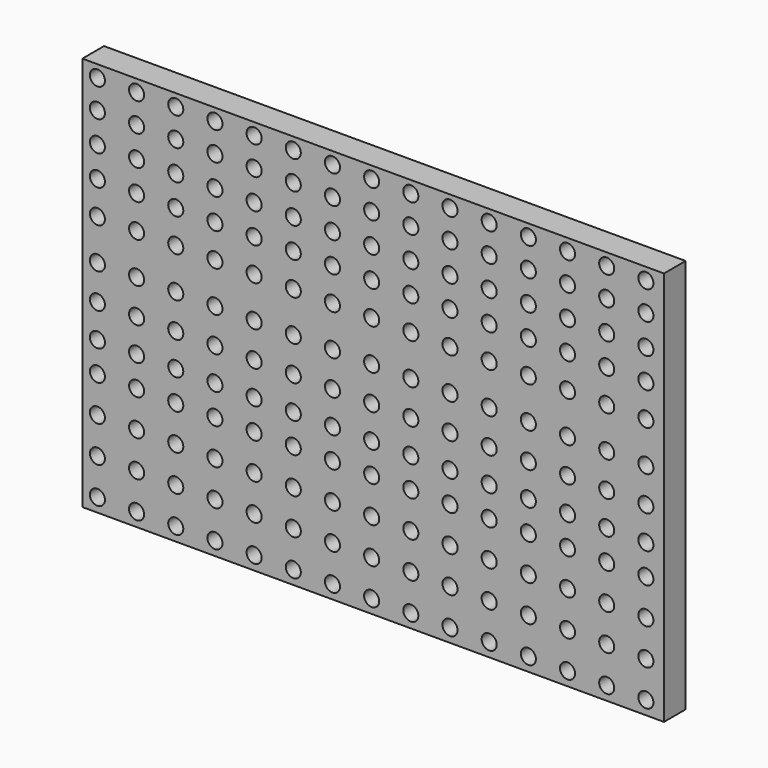
from build123d import *

# Parameters (mm, degrees)
F0_W     = 98.044004
F0_H     = 66.548001
F0_R     = 1.270001
F1_DEPTH = 4.572


with BuildPart() as f1:
    # F0 (on Front) → F1 (new body)
    with BuildSketch(Plane.XZ):
        with Locations((0.635, -0.891647)):
            Rectangle(F0_W, F0_H)
        with Locations((-45.847002, -31.879646)):
            Circle(F0_R, mode=Mode.SUBTRACT)
        with Locations((-39.243002, -31.879646)):
            Circle(F0_R, mode=Mode.SUBTRACT)
        with Locations((-32.639002, -31.879646)):
            Circle(F0_R, mode=Mode.SUBTRACT)
        with Locations((-26.035002, -31.879646)):
            Circle(F0_R, mode=Mode.SUBTRACT)
        with Locations((-45.847002, -25.783646)):
            Circle(F0_R, mode=Mode.SUBTRACT)
        with Locations((-39.243002, -25.783646)):
            Circle(F0_R, mode=Mode.SUBTRACT)
        with Locations((-45.847002, -19.687646)):
            Circle(F0_R, mode=Mode.SUBTRACT)
        with Locations((-39.243002, -19.687646)):
            Circle(F0_R, mode=Mode.SUBTRACT)
        with Locations((-32.639002, -25.783646)):
            Circle(F0_R, mode=Mode.SUBTRACT)
        with Locations((-26.035002, -25.783646)):
            Circle(F0_R, mode=Mode.SUBTRACT)
        with Locations((-32.639002, -19.687646)):
            Circle(F0_R, mode=Mode.SUBTRACT)
        with Locations((-26.035002, -19.687646)):
            Circle(F0_R, mode=Mode.SUBTRACT)
        with Locations((-19.431002, -31.879646)):
            Circle(F0_R, mode=Mode.SUBTRACT)
        with Locations((-12.827002, -31.879646)):
            Circle(F0_R, mode=Mode.SUBTRACT)
        with Locations((-6.223002, -31.879646)):
            Circle(F0_R, mode=Mode.SUBTRACT)
        with Locations((0.380998, -31.879646)):
            Circle(F0_R, mode=Mode.SUBTRACT)
        with Locations((-19.431002, -25.783646)):
            Circle(F0_R, mode=Mode.SUBTRACT)
        with Locations((-12.827002, -25.783646)):
            Circle(F0_R, mode=Mode.SUBTRACT)
        with Locations((-19.431002, -19.687646)):
            Circle(F0_R, mode=Mode.SUBTRACT)
        with Locations((-12.827002, -19.687646)):
            Circle(F0_R, mode=Mode.SUBTRACT)
        with Locations((-6.223002, -25.783646)):
            Circle(F0_R, mode=Mode.SUBTRACT)
        with Locations((0.380998, -25.783646)):
            Circle(F0_R, mode=Mode.SUBTRACT)
        with Locations((-6.223002, -19.687646)):
            Circle(F0_R, mode=Mode.SUBTRACT)
        with Locations((0.380998, -19.687646)):
            Circle(F0_R, mode=Mode.SUBTRACT)
        with Locations((-45.847002, -13.591646)):
            Circle(F0_R, mode=Mode.SUBTRACT)
        with Locations((-39.243002, -13.591646)):
            Circle(F0_R, mode=Mode.SUBTRACT)
        with Locations((-32.639002, -13.591646)):
            Circle(F0_R, mode=Mode.SUBTRACT)
        with Locations((-26.035002, -13.591646)):
            Circle(F0_R, mode=Mode.SUBTRACT)
        with Locations((-45.847002, -8.511646)):
            Circle(F0_R, mode=Mode.SUBTRACT)
        with Locations((-39.243002, -8.511646)):
            Circle(F0_R, mode=Mode.SUBTRACT)
        with Locations((-45.847002, -2.923646)):
            Circle(F0_R, mode=Mode.SUBTRACT)
        with Locations((-39.243002, -2.923646)):
            Circle(F0_R, mode=Mode.SUBTRACT)
        with Locations((-32.639002, -8.511646)):
            Circle(F0_R, mode=Mode.SUBTRACT)
        with Locations((-26.035002, -8.511646)):
            Circle(F0_R, mode=Mode.SUBTRACT)
        with Locations((-32.639002, -2.923646)):
            Circle(F0_R, mode=Mode.SUBTRACT)
        with Locations((-26.035002, -2.923646)):
            Circle(F0_R, mode=Mode.SUBTRACT)
        with Locations((-19.431002, -13.591646)):
            Circle(F0_R, mode=Mode.SUBTRACT)
        with Locations((-12.827002, -13.591646)):
            Circle(F0_R, mode=Mode.SUBTRACT)
        with Locations((-6.223002, -13.591646)):
            Circle(F0_R, mode=Mode.SUBTRACT)
        with Locations((0.380998, -13.591646)):
            Circle(F0_R, mode=Mode.SUBTRACT)
        with Locations((-19.431002, -8.511646)):
            Circle(F0_R, mode=Mode.SUBTRACT)
        with Locations((-12.827002, -8.511646)):
            Circle(F0_R, mode=Mode.SUBTRACT)
        with Locations((-19.431002, -2.923646)):
            Circle(F0_R, mode=Mode.SUBTRACT)
        with Locations((-12.827002, -2.923646)):
            Circle(F0_R, mode=Mode.SUBTRACT)
        with Locations((-6.223002, -8.511646)):
            Circle(F0_R, mode=Mode.SUBTRACT)
        with Locations((0.380998, -8.511646)):
            Circle(F0_R, mode=Mode.SUBTRACT)
        with Locations((-6.223002, -2.923646)):
            Circle(F0_R, mode=Mode.SUBTRACT)
        with Locations((0.380998, -2.923646)):
            Circle(F0_R, mode=Mode.SUBTRACT)
        with Locations((6.984998, -31.879646)):
            Circle(F0_R, mode=Mode.SUBTRACT)
        with Locations((13.588998, -31.879646)):
            Circle(F0_R, mode=Mode.SUBTRACT)
        with Locations((20.192998, -31.879646)):
            Circle(F0_R, mode=Mode.SUBTRACT)
        with Locations((6.984998, -25.783646)):
            Circle(F0_R, mode=Mode.SUBTRACT)
        with Locations((6.984998, -19.687646)):
            Circle(F0_R, mode=Mode.SUBTRACT)
        with Locations((13.588998, -25.783646)):
            Circle(F0_R, mode=Mode.SUBTRACT)
        with Locations((20.192998, -25.783646)):
            Circle(F0_R, mode=Mode.SUBTRACT)
        with Locations((13.588998, -19.687646)):
            Circle(F0_R, mode=Mode.SUBTRACT)
        with Locations((20.192998, -19.687646)):
            Circle(F0_R, mode=Mode.SUBTRACT)
        with Locations((26.796998, -31.879646)):
            Circle(F0_R, mode=Mode.SUBTRACT)
        with Locations((33.400998, -31.879646)):
            Circle(F0_R, mode=Mode.SUBTRACT)
        with Locations((40.004998, -31.879646)):
            Circle(F0_R, mode=Mode.SUBTRACT)
        with Locations((46.608998, -31.879646)):
            Circle(F0_R, mode=Mode.SUBTRACT)
        with Locations((26.796998, -25.783646)):
            Circle(F0_R, mode=Mode.SUBTRACT)
        with Locations((33.400998, -25.783646)):
            Circle(F0_R, mode=Mode.SUBTRACT)
        with Locations((26.796998, -19.687646)):
            Circle(F0_R, mode=Mode.SUBTRACT)
        with Locations((33.400998, -19.687646)):
            Circle(F0_R, mode=Mode.SUBTRACT)
        with Locations((40.004998, -25.783646)):
            Circle(F0_R, mode=Mode.SUBTRACT)
        with Locations((46.608998, -25.783646)):
            Circle(F0_R, mode=Mode.SUBTRACT)
        with Locations((40.004998, -19.687646)):
            Circle(F0_R, mode=Mode.SUBTRACT)
        with Locations((46.608998, -19.687646)):
            Circle(F0_R, mode=Mode.SUBTRACT)
        with Locations((6.984998, -13.591646)):
            Circle(F0_R, mode=Mode.SUBTRACT)
        with Locations((13.588998, -13.591646)):
            Circle(F0_R, mode=Mode.SUBTRACT)
        with Locations((20.192998, -13.591646)):
            Circle(F0_R, mode=Mode.SUBTRACT)
        with Locations((6.984998, -8.511646)):
            Circle(F0_R, mode=Mode.SUBTRACT)
        with Locations((6.984998, -2.923646)):
            Circle(F0_R, mode=Mode.SUBTRACT)
        with Locations((13.588998, -8.511646)):
            Circle(F0_R, mode=Mode.SUBTRACT)
        with Locations((20.192998, -8.511646)):
            Circle(F0_R, mode=Mode.SUBTRACT)
        with Locations((13.588998, -2.923646)):
            Circle(F0_R, mode=Mode.SUBTRACT)
        with Locations((20.192998, -2.923646)):
            Circle(F0_R, mode=Mode.SUBTRACT)
        with Locations((26.796998, -13.591646)):
            Circle(F0_R, mode=Mode.SUBTRACT)
        with Locations((33.400998, -13.591646)):
            Circle(F0_R, mode=Mode.SUBTRACT)
        with Locations((40.004998, -13.591646)):
            Circle(F0_R, mode=Mode.SUBTRACT)
        with Locations((46.608998, -13.591646)):
            Circle(F0_R, mode=Mode.SUBTRACT)
        with Locations((26.796998, -8.511646)):
            Circle(F0_R, mode=Mode.SUBTRACT)
        with Locations((33.400998, -8.511646)):
            Circle(F0_R, mode=Mode.SUBTRACT)
        with Locations((26.796998, -2.923646)):
            Circle(F0_R, mode=Mode.SUBTRACT)
        with Locations((33.400998, -2.923646)):
            Circle(F0_R, mode=Mode.SUBTRACT)
        with Locations((40.004998, -8.511646)):
            Circle(F0_R, mode=Mode.SUBTRACT)
        with Locations((46.608998, -8.511646)):
            Circle(F0_R, mode=Mode.SUBTRACT)
        with Locations((40.004998, -2.923646)):
            Circle(F0_R, mode=Mode.SUBTRACT)
        with Locations((46.608998, -2.923646)):
            Circle(F0_R, mode=Mode.SUBTRACT)
        with Locations((-45.847002, 2.918354)):
            Circle(F0_R, mode=Mode.SUBTRACT)
        with Locations((-39.243002, 2.918354)):
            Circle(F0_R, mode=Mode.SUBTRACT)
        with Locations((-32.639002, 2.918354)):
            Circle(F0_R, mode=Mode.SUBTRACT)
        with Locations((-26.035002, 2.918354)):
            Circle(F0_R, mode=Mode.SUBTRACT)
        with Locations((-45.847002, 9.776354)):
            Circle(F0_R, mode=Mode.SUBTRACT)
        with Locations((-39.243002, 9.776354)):
            Circle(F0_R, mode=Mode.SUBTRACT)
        with Locations((-45.847002, 15.364354)):
            Circle(F0_R, mode=Mode.SUBTRACT)
        with Locations((-39.243002, 15.364354)):
            Circle(F0_R, mode=Mode.SUBTRACT)
        with Locations((-32.639002, 9.776354)):
            Circle(F0_R, mode=Mode.SUBTRACT)
        with Locations((-26.035002, 9.776354)):
            Circle(F0_R, mode=Mode.SUBTRACT)
        with Locations((-32.639002, 15.364354)):
            Circle(F0_R, mode=Mode.SUBTRACT)
        with Locations((-26.035002, 15.364354)):
            Circle(F0_R, mode=Mode.SUBTRACT)
        with Locations((-19.431002, 2.918354)):
            Circle(F0_R, mode=Mode.SUBTRACT)
        with Locations((-12.827002, 2.918354)):
            Circle(F0_R, mode=Mode.SUBTRACT)
        with Locations((-6.223002, 2.918354)):
            Circle(F0_R, mode=Mode.SUBTRACT)
        with Locations((0.380998, 2.918354)):
            Circle(F0_R, mode=Mode.SUBTRACT)
        with Locations((-19.431002, 9.776354)):
            Circle(F0_R, mode=Mode.SUBTRACT)
        with Locations((-12.827002, 9.776354)):
            Circle(F0_R, mode=Mode.SUBTRACT)
        with Locations((-19.431002, 15.364354)):
            Circle(F0_R, mode=Mode.SUBTRACT)
        with Locations((-12.827002, 15.364354)):
            Circle(F0_R, mode=Mode.SUBTRACT)
        with Locations((-6.223002, 9.776354)):
            Circle(F0_R, mode=Mode.SUBTRACT)
        with Locations((0.380998, 9.776354)):
            Circle(F0_R, mode=Mode.SUBTRACT)
        with Locations((-6.223002, 15.364354)):
            Circle(F0_R, mode=Mode.SUBTRACT)
        with Locations((0.380998, 15.364354)):
            Circle(F0_R, mode=Mode.SUBTRACT)
        with Locations((-45.847002, 20.444354)):
            Circle(F0_R, mode=Mode.SUBTRACT)
        with Locations((-39.243002, 20.444354)):
            Circle(F0_R, mode=Mode.SUBTRACT)
        with Locations((-32.639002, 20.444354)):
            Circle(F0_R, mode=Mode.SUBTRACT)
        with Locations((-26.035002, 20.444354)):
            Circle(F0_R, mode=Mode.SUBTRACT)
        with Locations((-45.847002, 25.524354)):
            Circle(F0_R, mode=Mode.SUBTRACT)
        with Locations((-39.243002, 25.524354)):
            Circle(F0_R, mode=Mode.SUBTRACT)
        with Locations((-45.847002, 30.350354)):
            Circle(F0_R, mode=Mode.SUBTRACT)
        with Locations((-39.243002, 30.350354)):
            Circle(F0_R, mode=Mode.SUBTRACT)
        with Locations((-32.639002, 25.524354)):
            Circle(F0_R, mode=Mode.SUBTRACT)
        with Locations((-26.035002, 25.524354)):
            Circle(F0_R, mode=Mode.SUBTRACT)
        with Locations((-32.639002, 30.350354)):
            Circle(F0_R, mode=Mode.SUBTRACT)
        with Locations((-26.035002, 30.350354)):
            Circle(F0_R, mode=Mode.SUBTRACT)
        with Locations((-19.431002, 20.444354)):
            Circle(F0_R, mode=Mode.SUBTRACT)
        with Locations((-12.827002, 20.444354)):
            Circle(F0_R, mode=Mode.SUBTRACT)
        with Locations((-6.223002, 20.444354)):
            Circle(F0_R, mode=Mode.SUBTRACT)
        with Locations((0.380998, 20.444354)):
            Circle(F0_R, mode=Mode.SUBTRACT)
        with Locations((-19.431002, 25.524354)):
            Circle(F0_R, mode=Mode.SUBTRACT)
        with Locations((-12.827002, 25.524354)):
            Circle(F0_R, mode=Mode.SUBTRACT)
        with Locations((-19.431002, 30.350354)):
            Circle(F0_R, mode=Mode.SUBTRACT)
        with Locations((-12.827002, 30.350354)):
            Circle(F0_R, mode=Mode.SUBTRACT)
        with Locations((-6.223002, 25.524354)):
            Circle(F0_R, mode=Mode.SUBTRACT)
        with Locations((0.380998, 25.524354)):
            Circle(F0_R, mode=Mode.SUBTRACT)
        with Locations((-6.223002, 30.350354)):
            Circle(F0_R, mode=Mode.SUBTRACT)
        with Locations((0.380998, 30.350354)):
            Circle(F0_R, mode=Mode.SUBTRACT)
        with Locations((6.984998, 2.918354)):
            Circle(F0_R, mode=Mode.SUBTRACT)
        with Locations((13.588998, 2.918354)):
            Circle(F0_R, mode=Mode.SUBTRACT)
        with Locations((20.192998, 2.918354)):
            Circle(F0_R, mode=Mode.SUBTRACT)
        with Locations((6.984998, 9.776354)):
            Circle(F0_R, mode=Mode.SUBTRACT)
        with Locations((6.984998, 15.364354)):
            Circle(F0_R, mode=Mode.SUBTRACT)
        with Locations((13.588998, 9.776354)):
            Circle(F0_R, mode=Mode.SUBTRACT)
        with Locations((20.192998, 9.776354)):
            Circle(F0_R, mode=Mode.SUBTRACT)
        with Locations((13.588998, 15.364354)):
            Circle(F0_R, mode=Mode.SUBTRACT)
        with Locations((20.192998, 15.364354)):
            Circle(F0_R, mode=Mode.SUBTRACT)
        with Locations((26.796998, 2.918354)):
            Circle(F0_R, mode=Mode.SUBTRACT)
        with Locations((33.400998, 2.918354)):
            Circle(F0_R, mode=Mode.SUBTRACT)
        with Locations((40.004998, 2.918354)):
            Circle(F0_R, mode=Mode.SUBTRACT)
        with Locations((46.608998, 2.918354)):
            Circle(F0_R, mode=Mode.SUBTRACT)
        with Locations((26.796998, 9.776354)):
            Circle(F0_R, mode=Mode.SUBTRACT)
        with Locations((33.400998, 9.776354)):
            Circle(F0_R, mode=Mode.SUBTRACT)
        with Locations((26.796998, 15.364354)):
            Circle(F0_R, mode=Mode.SUBTRACT)
        with Locations((33.400998, 15.364354)):
            Circle(F0_R, mode=Mode.SUBTRACT)
        with Locations((40.004998, 9.776354)):
            Circle(F0_R, mode=Mode.SUBTRACT)
        with Locations((46.608998, 9.776354)):
            Circle(F0_R, mode=Mode.SUBTRACT)
        with Locations((40.004998, 15.364354)):
            Circle(F0_R, mode=Mode.SUBTRACT)
        with Locations((46.608998, 15.364354)):
            Circle(F0_R, mode=Mode.SUBTRACT)
        with Locations((6.984998, 20.444354)):
            Circle(F0_R, mode=Mode.SUBTRACT)
        with Locations((13.588998, 20.444354)):
            Circle(F0_R, mode=Mode.SUBTRACT)
        with Locations((20.192998, 20.444354)):
            Circle(F0_R, mode=Mode.SUBTRACT)
        with Locations((6.984998, 25.524354)):
            Circle(F0_R, mode=Mode.SUBTRACT)
        with Locations((6.984998, 30.350354)):
            Circle(F0_R, mode=Mode.SUBTRACT)
        with Locations((13.588998, 25.524354)):
            Circle(F0_R, mode=Mode.SUBTRACT)
        with Locations((20.192998, 25.524354)):
            Circle(F0_R, mode=Mode.SUBTRACT)
        with Locations((13.588998, 30.350354)):
            Circle(F0_R, mode=Mode.SUBTRACT)
        with Locations((20.192998, 30.350354)):
            Circle(F0_R, mode=Mode.SUBTRACT)
        with Locations((26.796998, 20.444354)):
            Circle(F0_R, mode=Mode.SUBTRACT)
        with Locations((33.400998, 20.444354)):
            Circle(F0_R, mode=Mode.SUBTRACT)
        with Locations((40.004998, 20.444354)):
            Circle(F0_R, mode=Mode.SUBTRACT)
        with Locations((46.608998, 20.444354)):
            Circle(F0_R, mode=Mode.SUBTRACT)
        with Locations((26.796998, 25.524354)):
            Circle(F0_R, mode=Mode.SUBTRACT)
        with Locations((33.400998, 25.524354)):
            Circle(F0_R, mode=Mode.SUBTRACT)
        with Locations((26.796998, 30.350354)):
            Circle(F0_R, mode=Mode.SUBTRACT)
        with Locations((33.400998, 30.350354)):
            Circle(F0_R, mode=Mode.SUBTRACT)
        with Locations((40.004998, 25.524354)):
            Circle(F0_R, mode=Mode.SUBTRACT)
        with Locations((46.608998, 25.524354)):
            Circle(F0_R, mode=Mode.SUBTRACT)
        with Locations((40.004998, 30.350354)):
            Circle(F0_R, mode=Mode.SUBTRACT)
        with Locations((46.608998, 30.350354)):
            Circle(F0_R, mode=Mode.SUBTRACT)
    extrude(amount=F1_DEPTH)


solid = f1.part
